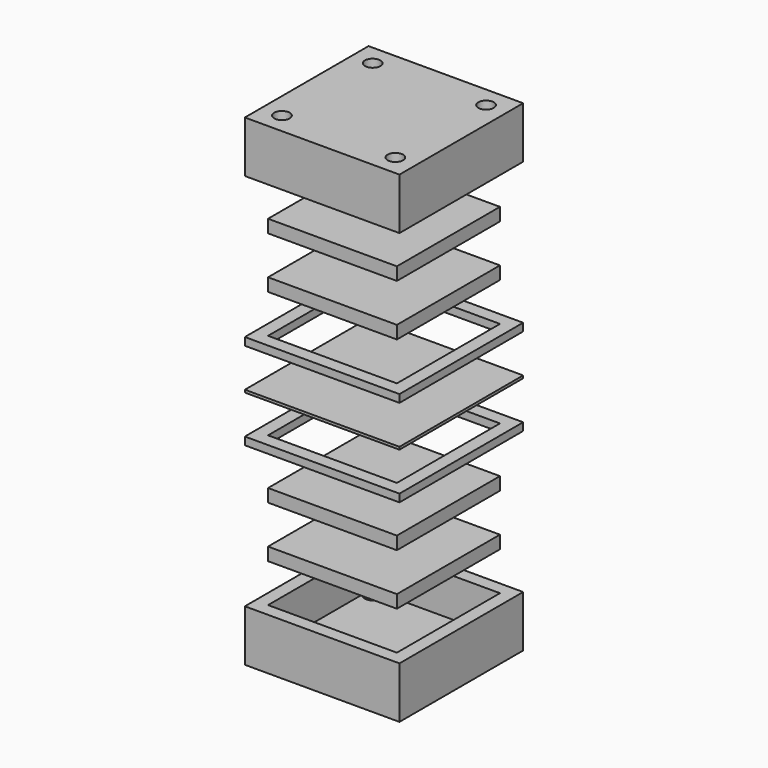
from build123d import *

# Parameters (mm, degrees)
F0_W      = 76.2
F0_H      = 76.2
F0_W_2    = 63.5
F0_H_2    = 63.5
F1_DEPTH  = 25.4
F2_DEPTH  = 6.35
F3_W      = 76.2
F3_H      = 76.2
F4_DEPTH  = 25.4
F5_DEPTH  = 19.05
F6_W      = 76.2
F6_H      = 76.2
F6_W_2    = 63.5
F6_H_2    = 63.5
F7_DEPTH  = 25.4
F8_W      = 63.5
F8_H      = 63.5
F9_DEPTH  = 25.4
F10_DEPTH = 19.05
F11_W     = 76.2
F11_H     = 76.2
F11_W_2   = 63.5
F11_H_2   = 63.5
F12_DEPTH = 22.86
F13_DEPTH = 19.05
F14_W     = 76.2
F14_H     = 76.2
F15_DEPTH = 20.32
F16_DEPTH = 19.05
F19_R     = 3.81
F20_DEPTH = 25.4
F21_R     = 3.81
F22_DEPTH = 25.4


with BuildPart() as f1:
    # F0 (on Top) → F1 (new body)
    with BuildSketch(Plane.XY):
        with Locations((38.1, 38.1)):
            Rectangle(F0_W, F0_H)
        with Locations((38.1, 38.1)):
            Rectangle(F0_W_2, F0_H_2, mode=Mode.SUBTRACT)
    extrude(amount=F1_DEPTH)

    # F0 (on Top) → F2 (join)
    with BuildSketch(Plane.XY):
        with Locations((38.1, 38.1)):
            Rectangle(F0_W_2, F0_H_2)
    extrude(amount=F2_DEPTH)


with BuildPart() as f4:
    # F3 (on face) → F4 (new body)
    with BuildSketch(Plane.XY.offset(25.4)):
        with Locations((38.1, 38.1)):
            Rectangle(F3_W, F3_H)
    extrude(amount=F4_DEPTH)

    # F3 (on face) → F5 (cut)
    with BuildSketch(Plane.XY.offset(25.4)):
        with Locations((38.1, 38.1)):
            Rectangle(F3_W, F3_H)
    extrude(amount=F5_DEPTH, mode=Mode.SUBTRACT)

    # F6 (on face) → F7 (cut)
    with BuildSketch(Plane.XY.offset(50.8)):
        with Locations((38.1, 38.1)):
            Rectangle(F6_W, F6_H)
        with Locations((38.1, 38.1)):
            Rectangle(F6_W_2, F6_H_2, mode=Mode.SUBTRACT)
    extrude(amount=-F7_DEPTH, mode=Mode.SUBTRACT)


with BuildPart() as f9:
    # F8 (on face) → F9 (new body)
    with BuildSketch(Plane.XY.offset(50.8)):
        with Locations((38.1, 38.1)):
            Rectangle(F8_W, F8_H)
    extrude(amount=F9_DEPTH)

    # F8 (on face) → F10 (cut)
    with BuildSketch(Plane.XY.offset(50.8)):
        with Locations((38.1, 38.1)):
            Rectangle(F8_W, F8_H)
    extrude(amount=F10_DEPTH, mode=Mode.SUBTRACT)


with BuildPart() as f12:
    # F11 (on face) → F12 (new body)
    with BuildSketch(Plane.XY.offset(76.2)):
        with Locations((38.1, 38.1)):
            Rectangle(F11_W, F11_H)
        with Locations((38.1, 38.1)):
            Rectangle(F11_W_2, F11_H_2, mode=Mode.SUBTRACT)
    extrude(amount=F12_DEPTH)

    # F11 (on face) → F13 (cut)
    with BuildSketch(Plane.XY.offset(76.2)):
        with Locations((38.1, 38.1)):
            Rectangle(F11_W, F11_H)
        with Locations((38.1, 38.1)):
            Rectangle(F11_W_2, F11_H_2, mode=Mode.SUBTRACT)
    extrude(amount=F13_DEPTH, mode=Mode.SUBTRACT)


with BuildPart() as f15:
    # F14 (on face) → F15 (new body)
    with BuildSketch(Plane.XY.offset(99.06)):
        with Locations((38.1, 38.1)):
            Rectangle(F14_W, F14_H)
    extrude(amount=F15_DEPTH)

    # F14 (on face) → F16 (cut)
    with BuildSketch(Plane.XY.offset(99.06)):
        with Locations((38.1, 38.1)):
            Rectangle(F14_W, F14_H)
    extrude(amount=F16_DEPTH, mode=Mode.SUBTRACT)

    # F18: F15, F12, F9, F4, F1 across plane


with BuildPart() as f15_1:
    add(f15.part)
    add(f15.part.mirror(Plane(origin=(38.1, 38.1, 118.745), x_dir=(1, 0, 0), z_dir=(0, 0, -1))))
    add(f12.part.mirror(Plane(origin=(38.1, 38.1, 118.745), x_dir=(1, 0, 0), z_dir=(0, 0, -1))))
    add(f9.part.mirror(Plane(origin=(38.1, 38.1, 118.745), x_dir=(1, 0, 0), z_dir=(0, 0, -1))))
    add(f4.part.mirror(Plane(origin=(38.1, 38.1, 118.745), x_dir=(1, 0, 0), z_dir=(0, 0, -1))))
    add(f1.part.mirror(Plane(origin=(38.1, 38.1, 118.745), x_dir=(1, 0, 0), z_dir=(0, 0, -1))))

    # F19 (on face) → F20 (cut)
    with BuildSketch(Plane.XY.offset(237.49)):
        with Locations((10.16, 10.16)):
            Circle(F19_R)
        with Locations((10.16, 66.04)):
            Circle(F19_R)
        with Locations((66.04, 66.04)):
            Circle(F19_R)
        with Locations((66.04, 10.16)):
            Circle(F19_R)
    extrude(amount=-F20_DEPTH, mode=Mode.SUBTRACT)


with BuildPart() as f1_1:
    add(f1.part)

    # F21 (on face) → F22 (cut)
    with BuildSketch(Plane(origin=(0, 0, 0), x_dir=(1, 0, 0), z_dir=(0, 0, -1))):
        with Locations((66.04, -66.04)):
            Circle(F21_R)
        with Locations((10.16, -66.04)):
            Circle(F21_R)
        with Locations((66.04, -10.16)):
            Circle(F21_R)
        with Locations((10.16, -10.16)):
            Circle(F21_R)
    extrude(amount=-F22_DEPTH, mode=Mode.SUBTRACT)


solid = Compound([f4.part, f9.part, f12.part, f15_1.part, f1_1.part])
